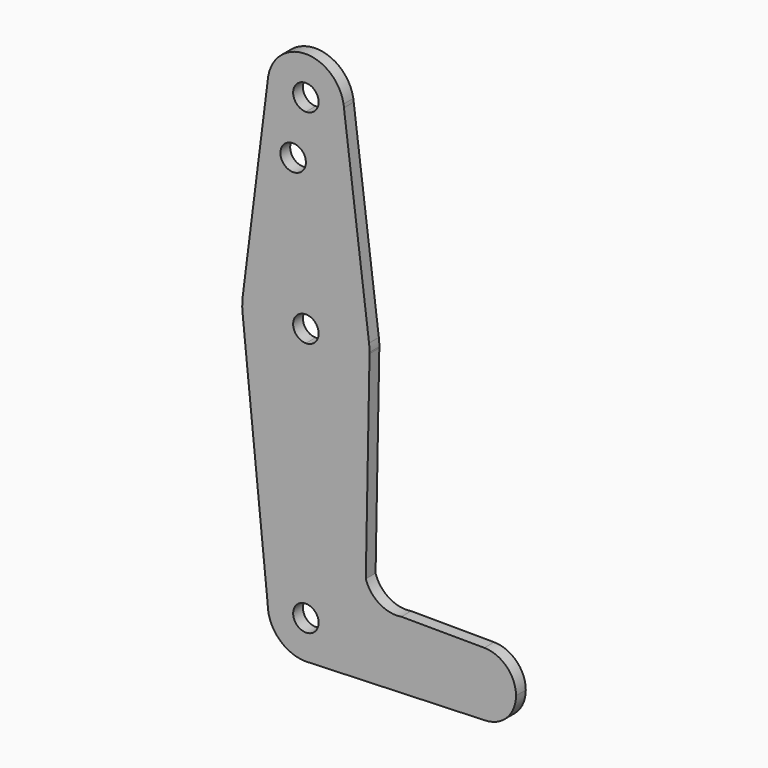
from build123d import *

# Parameters (mm, degrees)
F0_R     = 3.175
F1_DEPTH = 3.048


with BuildPart() as f1:
    # F0 (on Front) → F1 (new body)
    with BuildSketch(Plane.XZ):
        with BuildLine():
            ThreePointArc((0, 9.525), (-6.7351920908, 6.7351920908), (-9.525, 0))
            ThreePointArc((-9.525, 0), (-6.7351920908, -6.7351920908), (0, -9.525))
            Line((0, -9.525), (0.6773435479, -9.500885786))
            ThreePointArc((0.6773435479, -9.500885786), (6.9705567315, -6.4912990883), (9.525, 0))
            Line((9.525, 0), (3.175, 0))
            ThreePointArc((3.175, 0), (-2.2450640303, -2.2450640303), (0, 3.175))
            Line((0, 3.175), (0, 9.525))
        make_face()
        with BuildLine():
            Line((-15.7942028036, 61.9003804205), (-9.525, 0))
            ThreePointArc((-9.525, 0), (-6.7351920908, 6.7351920908), (0, 9.525))
            Line((0, 9.525), (0, 47.625))
            ThreePointArc((0, 47.625), (-10.644756084, 51.722700101), (-15.7942028036, 61.9003804205))
        make_face()
        with BuildLine():
            Line((0.6773435479, -9.500885786), (0, -9.525))
            ThreePointArc((0, -9.525), (0.3388863295, -9.5189695375), (0.6773435479, -9.500885786))
        make_face()
        with BuildLine():
            Line((0, 47.625), (0, 9.525))
            ThreePointArc((0, 9.525), (6.7351920908, 6.7351920908), (9.525, 0))
            Line((9.525, 0), (36.5125, 0))
            ThreePointArc((36.5125, 0), (38.8511614371, 5.6264476357), (44.4890450071, 7.9374039671))
            Line((44.4890450071, 7.9374039671), (23.8053818739, 8.0391492956))
            ThreePointArc((23.8053818739, 8.0391492956), (18.3643744348, 9.0984334363), (14.9381419101, 13.4559069624))
            Line((14.9381419101, 13.4559069624), (15.8722022989, 63.2019745243))
            ThreePointArc((15.8722022989, 63.2019745243), (11.119453012, 52.1698018679), (0, 47.625))
        make_face()
        with BuildLine():
            ThreePointArc((-15.7501580655, 65.4869941906), (-15.8738031121, 63.6949352638), (-15.7942028036, 61.9003804205))
            ThreePointArc((-15.7942028036, 61.9003804205), (-10.644756084, 51.722700101), (0, 47.625))
            Line((0, 47.625), (0, 60.325))
            ThreePointArc((0, 60.325), (-3.175, 63.5), (0, 66.675))
            Line((0, 66.675), (0, 79.375))
            ThreePointArc((0, 79.375), (-10.4993355081, 75.4071230315), (-15.7501580655, 65.4869941906))
        make_face()
        with BuildLine():
            ThreePointArc((9.525, 0), (6.9705567315, -6.4912990883), (0.6773435479, -9.500885786))
            Line((0.6773435479, -9.500885786), (44.7324052746, -7.9324746146))
            ThreePointArc((44.7324052746, -7.9324746146), (38.9380895153, -5.7116327839), (36.5125, 0))
            Line((36.5125, 0), (9.525, 0))
        make_face()
        with BuildLine():
            Line((0, 60.325), (0, 47.625))
            ThreePointArc((0, 47.625), (11.119453012, 52.1698018679), (15.8722022989, 63.2019745243))
            ThreePointArc((15.8722022989, 63.2019745243), (15.8743005593, 63.3509806965), (15.875, 63.5))
            ThreePointArc((15.875, 63.5), (15.8437587758, 64.4954561042), (15.7501580655, 65.4869941906))
            ThreePointArc((15.7501580655, 65.4869941906), (10.4993355081, 75.4071230315), (0, 79.375))
            Line((0, 79.375), (0, 66.675))
            ThreePointArc((0, 66.675), (2.2450640303, 65.7450640303), (3.175, 63.5))
            ThreePointArc((3.175, 63.5), (2.2450640303, 61.2549359697), (0, 60.325))
        make_face()
        with BuildLine():
            Line((-9.4917820271, 115.0947949106), (-15.7501580655, 65.4869941906))
            ThreePointArc((-15.7501580655, 65.4869941906), (-10.4993355081, 75.4071230315), (0, 79.375))
            Line((0, 79.375), (0, 100.0252))
            Line((0, 100.0252), (0, 104.775))
            ThreePointArc((0, 104.775), (-7.0105651171, 107.8519303867), (-9.4917820271, 115.0947949106))
        make_face()
        with Locations((-3.175, 100.0252)):
            Circle(F0_R, mode=Mode.SUBTRACT)
        with BuildLine():
            ThreePointArc((36.5125, 0), (38.9380895153, -5.7116327839), (44.7324052746, -7.9324746146))
            ThreePointArc((44.7324052746, -7.9324746146), (50.1616327839, -5.5119104847), (52.3875, 0))
            ThreePointArc((52.3875, 0), (50.0764476357, 5.5988385629), (44.4890450071, 7.9374039671))
            ThreePointArc((44.4890450071, 7.9374039671), (38.8511614371, 5.6264476357), (36.5125, 0))
        make_face()
        with BuildLine():
            Line((0, 100.0252), (0, 79.375))
            ThreePointArc((0, 79.375), (10.4993355081, 75.4071230315), (15.7501580655, 65.4869941906))
            Line((15.7501580655, 65.4869941906), (9.4917820271, 115.0947949106))
            ThreePointArc((9.4917820271, 115.0947949106), (9.5166918834, 114.6977443851), (9.525, 114.3))
            ThreePointArc((9.525, 114.3), (6.7351920908, 107.5648079092), (0, 104.775))
            Line((0, 104.775), (0, 100.0252))
        make_face()
        with BuildLine():
            Line((-9.3917766557, 115.8875), (-9.4917820271, 115.0947949106))
            ThreePointArc((-9.4917820271, 115.0947949106), (-7.0105651171, 107.8519303867), (0, 104.775))
            ThreePointArc((0, 104.775), (6.7351920908, 107.5648079092), (9.525, 114.3))
            ThreePointArc((9.525, 114.3), (9.5166918834, 114.6977443851), (9.4917820271, 115.0947949106))
            Line((9.4917820271, 115.0947949106), (9.3917766557, 115.8875))
            ThreePointArc((9.3917766557, 115.8875), (0, 123.825), (-9.3917766557, 115.8875))
        make_face()
        with BuildLine():
            ThreePointArc((3.175, 114.3), (2.2450640303, 112.0549359697), (0, 111.125))
            ThreePointArc((0, 111.125), (-2.2450640303, 116.5450640303), (3.175, 114.3))
        make_face(mode=Mode.SUBTRACT)
        with BuildLine():
            ThreePointArc((-9.3917766557, 115.8875), (-9.4500948393, 115.4921965143), (-9.4917820271, 115.0947949106))
            Line((-9.4917820271, 115.0947949106), (-9.3917766557, 115.8875))
        make_face()
        with BuildLine():
            Line((9.3917766557, 115.8875), (9.4917820271, 115.0947949106))
            ThreePointArc((9.4917820271, 115.0947949106), (9.4500948393, 115.4921965143), (9.3917766557, 115.8875))
        make_face()
        with BuildLine():
            ThreePointArc((9.525, 0), (6.7351920908, 6.7351920908), (0, 9.525))
            Line((0, 9.525), (0, 3.175))
            ThreePointArc((0, 3.175), (2.2450640303, 2.2450640303), (3.175, 0))
            Line((3.175, 0), (9.525, 0))
        make_face()
    extrude(amount=F1_DEPTH)


solid = f1.part
